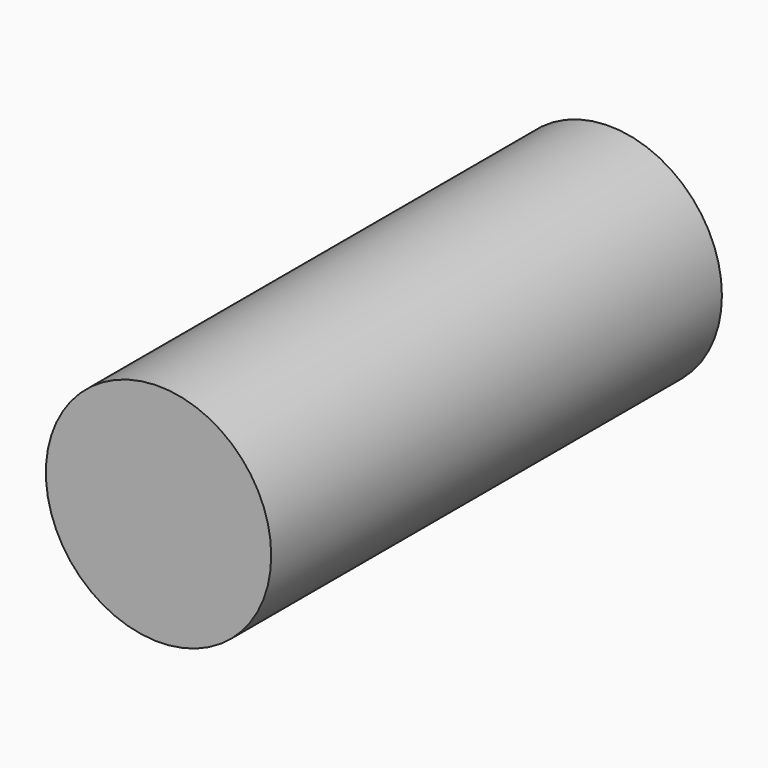
from build123d import *

# Parameters (mm, degrees)
CYLINDER_R     = 0.2
CYLINDER_DEPTH = 1


with BuildPart() as part:
    # Cylinder → Cylinder (new body)
    with BuildSketch(Plane(origin=(3, 0, 0.5), x_dir=(1, 0, 0), z_dir=(0, 1, 0))):
        Circle(CYLINDER_R)
    extrude(amount=CYLINDER_DEPTH)


solid = part.part
